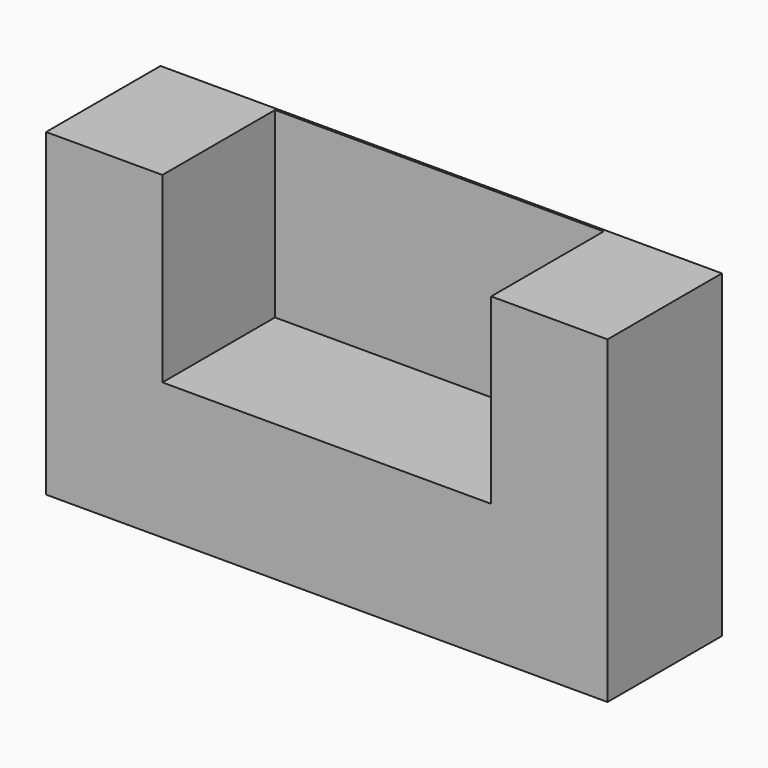
from build123d import *

# Parameters (mm, degrees)
F1_DEPTH = 15.748
F2_W     = 72.411287576
F2_H     = 40.2284925804
F3_DEPTH = 0.508


with BuildPart() as f1:
    # F0 (on Front) → F1 (new body, symmetric)
    with BuildSketch(Plane.XZ):
        Polygon((-33.3747491241, 14.154468663), (-59.001788497, 14.154468663), (-59.001788497, -56.1708956957), (64.6635815501, -56.1708956957), (64.6635815501, 14.154468663), (39.0365384519, 14.154468663), (39.0365384519, -26.0740239173), (-33.3747491241, -26.0740239173), align=None)
    extrude(amount=F1_DEPTH, both=True)

    # F2 (on face) → F3 (join)
    with BuildSketch(Plane(origin=(0, 15.748, 0), x_dir=(-1, 0, 0), z_dir=(0, 1, 0))):
        with Locations((-2.8308946639, -5.9597776271)):
            Rectangle(F2_W, F2_H)
    extrude(amount=-F3_DEPTH)


solid = f1.part
